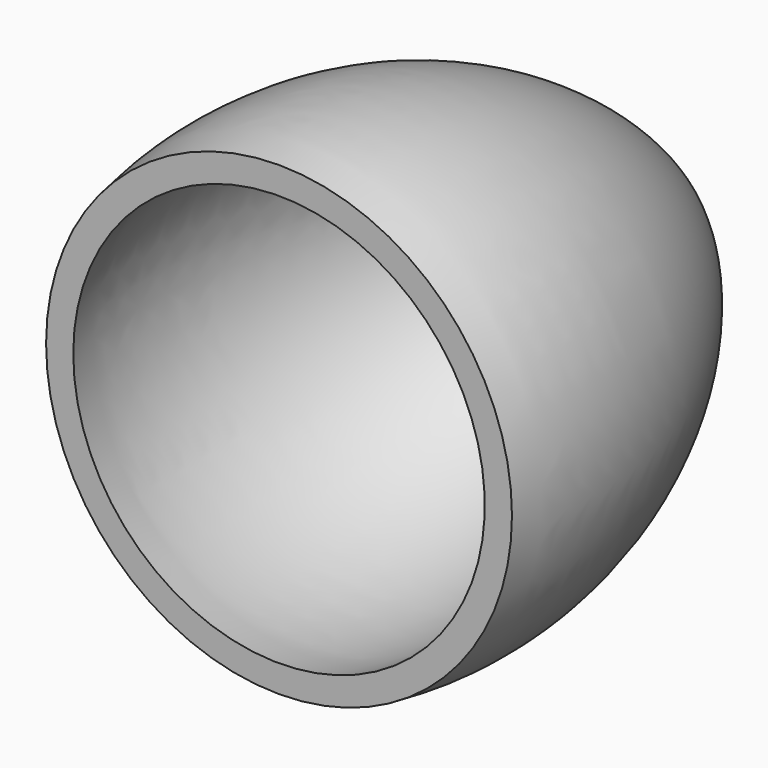
from build123d import *


with BuildPart() as f1:
    # F0 (on Top) → F1 (revolve)
    with BuildSketch(Plane.XY):
        with BuildLine():
            Line((-38.1, 0), (-33.655, 0))
            ThreePointArc((-33.655, 0), (-31.398989, 37.802124), (-11.224159, 69.85))
            Line((-11.224159, 69.85), (-15.669159, 69.85))
            ThreePointArc((-15.669159, 69.85), (-35.843989, 37.802124), (-38.1, 0))
        make_face()
    revolve(axis=Axis((0, 40.64, 0), (0, -1, 0)))


solid = f1.part
